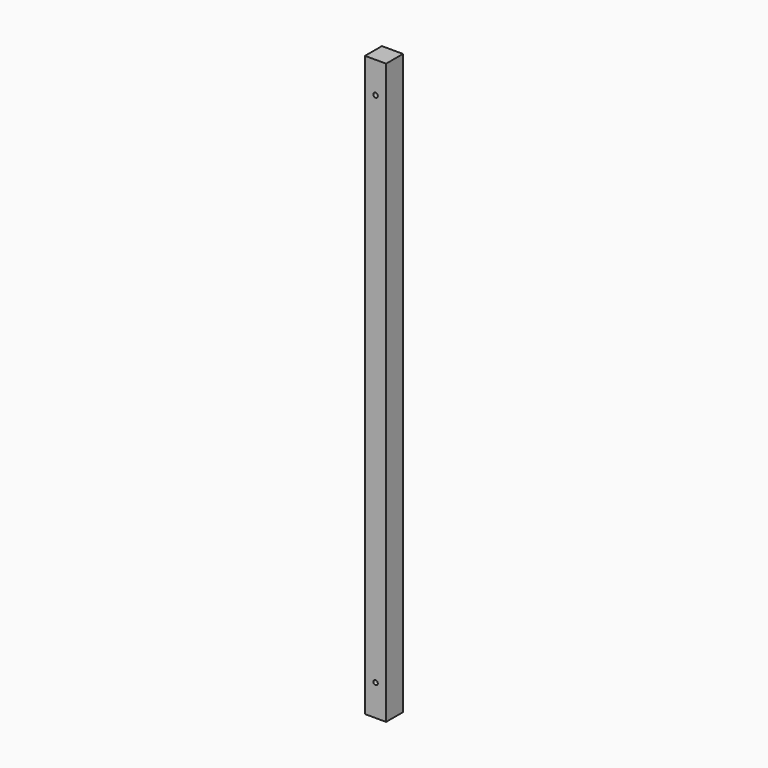
from build123d import *

# Parameters (mm, degrees)
F0_W     = 88.9
F0_H     = 88.9
F1_DEPTH = 2438.4
F3_D     = 19.05


with BuildPart() as f1:
    # F0 (on Top) → F1 (new body)
    with BuildSketch(Plane.XY):
        Rectangle(F0_W, F0_H)
    extrude(amount=F1_DEPTH)

    # F3 (through all)
    with Locations(Plane.XZ.offset(44.45)):
        with Locations((0, 131.445), (0, 2306.955)):
            Hole(F3_D / 2)


solid = f1.part
